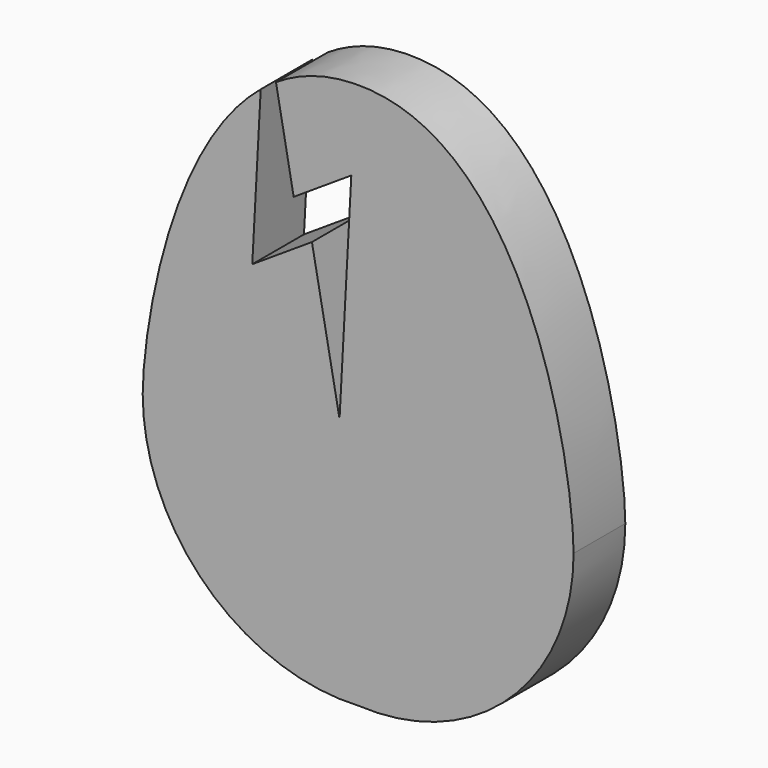
from build123d import *

# Parameters (mm, degrees)
F1_DEPTH = 38.1


with BuildPart() as f1:
    # F0 (on Front) → F1 (new body)
    with BuildSketch(Plane.XZ):
        with BuildLine():
            add(Edge.make_bspline(
                [(-124.698026, -38.298128), (-124.698026, -6.657428), (-109.722411, 97.596107), (-55.124661, 142.541462)],
                knots=[0, 0, 0, 0, 185.214936, 185.214936, 185.214936, 185.214936], degree=3))
            ThreePointArc((-124.698026, -38.298128), (-87.037867, -125.729423), (2.301974, -158.606644))
            ThreePointArc((2.301974, -158.606644), (91.641816, -125.729423), (129.301974, -38.298128))
            add(Edge.make_bspline(
                [(129.301974, -38.298128), (129.301974, 2.429356), (104.489639, 163.465356), (2.301974, 163.465356)],
                knots=[0, 0, 0, 0, 238.406173, 238.406173, 238.406173, 238.406173], degree=3))
            add(Edge.make_bspline(
                [(-46.119579, 149.159544), (-32.330696, 158.131419), (-16.295798, 163.465356), (2.301974, 163.465356)],
                knots=[195.017142, 195.017142, 195.017142, 195.017142, 238.406173, 238.406173, 238.406173, 238.406173], degree=3))
            Line((-46.119579, 149.159544), (-35.702314, 93.036128))
            Line((-35.702314, 93.036128), (-1.729349, 115.201356))
            Line((-1.729349, 115.201356), (-8.66785, -13.442805))
            Line((-8.66785, -13.442805), (-24.936882, 73.096852))
            Line((-24.936882, 73.096852), (-60.107851, 50.150001))
            Line((-60.107851, 50.150001), (-55.124661, 142.541462))
        make_face()
    extrude(amount=F1_DEPTH)


solid = f1.part
